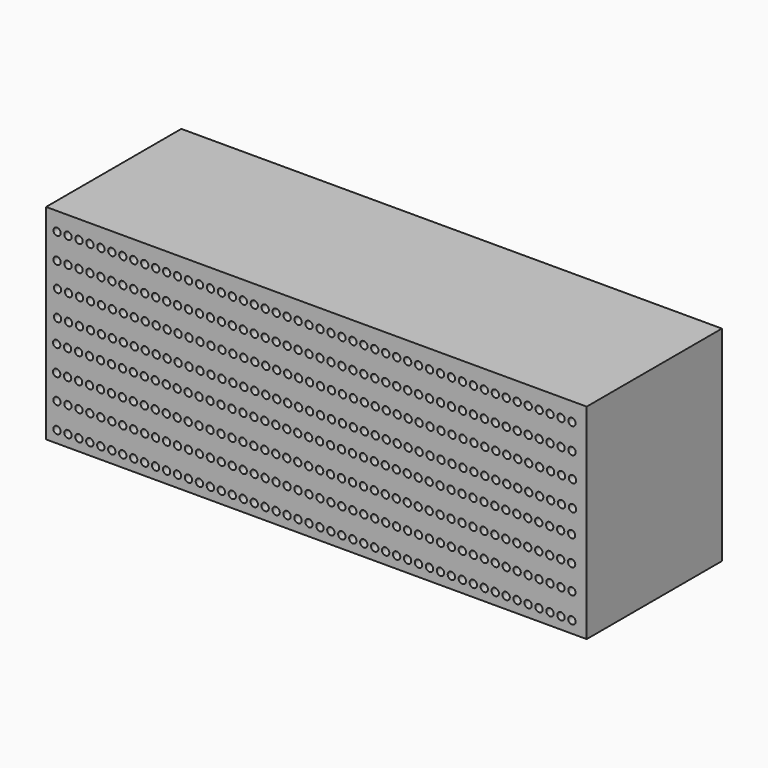
from build123d import *

# Parameters (mm, degrees)
F0_R     = 2.2098
F0_R_2   = 2.1844
F0_R_3   = 2.1971
F1_DEPTH = 101.6
F2_DEPTH = 101.6


with BuildPart() as f1:
    # F0 (on Front) → F1 (new body)
    with BuildSketch(Plane.XZ):
        Polygon((-162.4711, 59.309), (-162.4711, -61.5188), (-160.274, -61.5188), (160.274, -61.5188), (162.4711, -61.5188), (162.4711, 59.309), (162.4711, 61.5188), (-162.4711, 61.5188), align=None)
        with Locations((-155.927731, -54.442819)):
            Circle(F0_R, mode=Mode.SUBTRACT)
        with Locations((-149.349131, -54.442819)):
            Circle(F0_R, mode=Mode.SUBTRACT)
        with Locations((-142.745131, -54.442819)):
            Circle(F0_R, mode=Mode.SUBTRACT)
        with Locations((-136.166531, -54.442819)):
            Circle(F0_R, mode=Mode.SUBTRACT)
        with Locations((-129.575231, -54.442819)):
            Circle(F0_R, mode=Mode.SUBTRACT)
        with Locations((-122.996631, -54.442819)):
            Circle(F0_R, mode=Mode.SUBTRACT)
        with Locations((-116.405331, -54.442819)):
            Circle(F0_R, mode=Mode.SUBTRACT)
        with Locations((-109.826731, -54.442819)):
            Circle(F0_R, mode=Mode.SUBTRACT)
        with Locations((-103.235431, -54.442819)):
            Circle(F0_R, mode=Mode.SUBTRACT)
        with Locations((-96.656831, -54.442819)):
            Circle(F0_R, mode=Mode.SUBTRACT)
        with Locations((-90.065531, -54.442819)):
            Circle(F0_R, mode=Mode.SUBTRACT)
        with Locations((-83.486931, -54.442819)):
            Circle(F0_R, mode=Mode.SUBTRACT)
        with Locations((-155.927731, -39.075819)):
            Circle(F0_R_2, mode=Mode.SUBTRACT)
        with Locations((-149.349131, -39.075819)):
            Circle(F0_R_3, mode=Mode.SUBTRACT)
        with Locations((-142.745131, -39.075819)):
            Circle(F0_R_3, mode=Mode.SUBTRACT)
        with Locations((-136.166531, -39.075819)):
            Circle(F0_R_3, mode=Mode.SUBTRACT)
        with Locations((-129.575231, -39.075819)):
            Circle(F0_R_3, mode=Mode.SUBTRACT)
        with Locations((-122.996631, -39.075819)):
            Circle(F0_R_3, mode=Mode.SUBTRACT)
        with Locations((-116.405331, -39.075819)):
            Circle(F0_R_3, mode=Mode.SUBTRACT)
        with Locations((-109.826731, -39.075819)):
            Circle(F0_R_3, mode=Mode.SUBTRACT)
        with Locations((-103.235431, -39.075819)):
            Circle(F0_R_3, mode=Mode.SUBTRACT)
        with Locations((-96.656831, -39.075819)):
            Circle(F0_R_3, mode=Mode.SUBTRACT)
        with Locations((-90.065531, -39.075819)):
            Circle(F0_R_3, mode=Mode.SUBTRACT)
        with Locations((-83.486931, -39.075819)):
            Circle(F0_R_3, mode=Mode.SUBTRACT)
        with Locations((-76.895631, -54.442819)):
            Circle(F0_R, mode=Mode.SUBTRACT)
        with Locations((-70.317031, -54.442819)):
            Circle(F0_R, mode=Mode.SUBTRACT)
        with Locations((-63.725731, -54.442819)):
            Circle(F0_R, mode=Mode.SUBTRACT)
        with Locations((-57.147131, -54.442819)):
            Circle(F0_R, mode=Mode.SUBTRACT)
        with Locations((-50.555831, -54.442819)):
            Circle(F0_R, mode=Mode.SUBTRACT)
        with Locations((-43.977231, -54.442819)):
            Circle(F0_R, mode=Mode.SUBTRACT)
        with Locations((-37.385931, -54.442819)):
            Circle(F0_R, mode=Mode.SUBTRACT)
        with Locations((-30.807331, -54.442819)):
            Circle(F0_R, mode=Mode.SUBTRACT)
        with Locations((-24.216031, -54.442819)):
            Circle(F0_R, mode=Mode.SUBTRACT)
        with Locations((-17.637431, -54.442819)):
            Circle(F0_R, mode=Mode.SUBTRACT)
        with Locations((-11.046131, -54.442819)):
            Circle(F0_R, mode=Mode.SUBTRACT)
        with Locations((-4.467531, -54.442819)):
            Circle(F0_R, mode=Mode.SUBTRACT)
        Polygon((-158.137531, -45.654419), (-155.927731, -45.654419), (160.213369, -45.654419), (160.213369, -50.048619), (-160.334631, -50.048619), (-160.334631, -45.654419), align=None, mode=Mode.SUBTRACT)
        with Locations((-76.895631, -39.075819)):
            Circle(F0_R_3, mode=Mode.SUBTRACT)
        with Locations((-70.317031, -39.075819)):
            Circle(F0_R_3, mode=Mode.SUBTRACT)
        with Locations((-63.725731, -39.075819)):
            Circle(F0_R_3, mode=Mode.SUBTRACT)
        with Locations((-57.147131, -39.075819)):
            Circle(F0_R_3, mode=Mode.SUBTRACT)
        with Locations((-50.555831, -39.075819)):
            Circle(F0_R_3, mode=Mode.SUBTRACT)
        with Locations((-43.977231, -39.075819)):
            Circle(F0_R_3, mode=Mode.SUBTRACT)
        with Locations((-37.385931, -39.075819)):
            Circle(F0_R_3, mode=Mode.SUBTRACT)
        with Locations((-30.807331, -39.075819)):
            Circle(F0_R_3, mode=Mode.SUBTRACT)
        with Locations((-24.216031, -39.075819)):
            Circle(F0_R_3, mode=Mode.SUBTRACT)
        with Locations((-17.637431, -39.075819)):
            Circle(F0_R_3, mode=Mode.SUBTRACT)
        with Locations((-11.046131, -39.075819)):
            Circle(F0_R_3, mode=Mode.SUBTRACT)
        with Locations((-4.467531, -39.075819)):
            Circle(F0_R_3, mode=Mode.SUBTRACT)
        Polygon((-160.334631, -34.681619), (-160.334631, -30.287419), (160.213369, -30.287419), (160.213369, -34.681619), (158.016269, -34.681619), (-158.137531, -34.681619), align=None, mode=Mode.SUBTRACT)
        with Locations((-156.120604, -24.284236)):
            Circle(F0_R, mode=Mode.SUBTRACT)
        with Locations((-149.542004, -24.284236)):
            Circle(F0_R, mode=Mode.SUBTRACT)
        with Locations((-142.938004, -24.284236)):
            Circle(F0_R, mode=Mode.SUBTRACT)
        with Locations((-136.359404, -24.284236)):
            Circle(F0_R, mode=Mode.SUBTRACT)
        with Locations((-129.768104, -24.284236)):
            Circle(F0_R, mode=Mode.SUBTRACT)
        with Locations((-123.189504, -24.284236)):
            Circle(F0_R, mode=Mode.SUBTRACT)
        with Locations((-116.598204, -24.284236)):
            Circle(F0_R, mode=Mode.SUBTRACT)
        with Locations((-110.019604, -24.284236)):
            Circle(F0_R, mode=Mode.SUBTRACT)
        with Locations((-103.428304, -24.284236)):
            Circle(F0_R, mode=Mode.SUBTRACT)
        with Locations((-96.849704, -24.284236)):
            Circle(F0_R, mode=Mode.SUBTRACT)
        with Locations((-90.258404, -24.284236)):
            Circle(F0_R, mode=Mode.SUBTRACT)
        with Locations((-83.679804, -24.284236)):
            Circle(F0_R, mode=Mode.SUBTRACT)
        with Locations((-156.120604, -8.917236)):
            Circle(F0_R_2, mode=Mode.SUBTRACT)
        with Locations((-149.542004, -8.917236)):
            Circle(F0_R_3, mode=Mode.SUBTRACT)
        with Locations((-142.938004, -8.917236)):
            Circle(F0_R_3, mode=Mode.SUBTRACT)
        with Locations((-136.359404, -8.917236)):
            Circle(F0_R_3, mode=Mode.SUBTRACT)
        with Locations((-129.768104, -8.917236)):
            Circle(F0_R_3, mode=Mode.SUBTRACT)
        with Locations((-123.189504, -8.917236)):
            Circle(F0_R_3, mode=Mode.SUBTRACT)
        with Locations((-116.598204, -8.917236)):
            Circle(F0_R_3, mode=Mode.SUBTRACT)
        with Locations((-110.019604, -8.917236)):
            Circle(F0_R_3, mode=Mode.SUBTRACT)
        with Locations((-103.428304, -8.917236)):
            Circle(F0_R_3, mode=Mode.SUBTRACT)
        with Locations((-96.849704, -8.917236)):
            Circle(F0_R_3, mode=Mode.SUBTRACT)
        with Locations((-90.258404, -8.917236)):
            Circle(F0_R_3, mode=Mode.SUBTRACT)
        with Locations((-83.679804, -8.917236)):
            Circle(F0_R_3, mode=Mode.SUBTRACT)
        with Locations((-77.088504, -24.284236)):
            Circle(F0_R, mode=Mode.SUBTRACT)
        with Locations((-70.509904, -24.284236)):
            Circle(F0_R, mode=Mode.SUBTRACT)
        with Locations((-63.918604, -24.284236)):
            Circle(F0_R, mode=Mode.SUBTRACT)
        with Locations((-57.340004, -24.284236)):
            Circle(F0_R, mode=Mode.SUBTRACT)
        with Locations((-50.748704, -24.284236)):
            Circle(F0_R, mode=Mode.SUBTRACT)
        with Locations((-44.170104, -24.284236)):
            Circle(F0_R, mode=Mode.SUBTRACT)
        with Locations((-37.578804, -24.284236)):
            Circle(F0_R, mode=Mode.SUBTRACT)
        with Locations((-31.000204, -24.284236)):
            Circle(F0_R, mode=Mode.SUBTRACT)
        with Locations((-24.408904, -24.284236)):
            Circle(F0_R, mode=Mode.SUBTRACT)
        with Locations((-17.830304, -24.284236)):
            Circle(F0_R, mode=Mode.SUBTRACT)
        with Locations((-11.239004, -24.284236)):
            Circle(F0_R, mode=Mode.SUBTRACT)
        with Locations((-4.660404, -24.284236)):
            Circle(F0_R, mode=Mode.SUBTRACT)
        Polygon((-158.330404, -15.495836), (-156.120604, -15.495836), (160.020496, -15.495836), (160.020496, -19.890036), (-160.527504, -19.890036), (-160.527504, -15.495836), align=None, mode=Mode.SUBTRACT)
        with Locations((-77.088504, -8.917236)):
            Circle(F0_R_3, mode=Mode.SUBTRACT)
        with Locations((-70.509904, -8.917236)):
            Circle(F0_R_3, mode=Mode.SUBTRACT)
        with Locations((-63.918604, -8.917236)):
            Circle(F0_R_3, mode=Mode.SUBTRACT)
        with Locations((-57.340004, -8.917236)):
            Circle(F0_R_3, mode=Mode.SUBTRACT)
        with Locations((-50.748704, -8.917236)):
            Circle(F0_R_3, mode=Mode.SUBTRACT)
        with Locations((-44.170104, -8.917236)):
            Circle(F0_R_3, mode=Mode.SUBTRACT)
        with Locations((-37.578804, -8.917236)):
            Circle(F0_R_3, mode=Mode.SUBTRACT)
        with Locations((-31.000204, -8.917236)):
            Circle(F0_R_3, mode=Mode.SUBTRACT)
        with Locations((-24.408904, -8.917236)):
            Circle(F0_R_3, mode=Mode.SUBTRACT)
        with Locations((-17.830304, -8.917236)):
            Circle(F0_R_3, mode=Mode.SUBTRACT)
        with Locations((-11.239004, -8.917236)):
            Circle(F0_R_3, mode=Mode.SUBTRACT)
        with Locations((-4.660404, -8.917236)):
            Circle(F0_R_3, mode=Mode.SUBTRACT)
        Polygon((-160.527504, -4.523036), (-160.527504, -0.128836), (160.020496, -0.128836), (160.020496, -4.523036), (157.823396, -4.523036), (-158.330404, -4.523036), align=None, mode=Mode.SUBTRACT)
        with Locations((2.123769, -54.442819)):
            Circle(F0_R, mode=Mode.SUBTRACT)
        with Locations((8.702369, -54.442819)):
            Circle(F0_R, mode=Mode.SUBTRACT)
        with Locations((15.293669, -54.442819)):
            Circle(F0_R, mode=Mode.SUBTRACT)
        with Locations((21.872269, -54.442819)):
            Circle(F0_R, mode=Mode.SUBTRACT)
        with Locations((28.463569, -54.442819)):
            Circle(F0_R, mode=Mode.SUBTRACT)
        with Locations((35.042169, -54.442819)):
            Circle(F0_R, mode=Mode.SUBTRACT)
        with Locations((41.633469, -54.442819)):
            Circle(F0_R, mode=Mode.SUBTRACT)
        with Locations((48.212069, -54.442819)):
            Circle(F0_R, mode=Mode.SUBTRACT)
        with Locations((54.803369, -54.442819)):
            Circle(F0_R, mode=Mode.SUBTRACT)
        with Locations((61.381969, -54.442819)):
            Circle(F0_R, mode=Mode.SUBTRACT)
        with Locations((67.973269, -54.442819)):
            Circle(F0_R, mode=Mode.SUBTRACT)
        with Locations((74.551869, -54.442819)):
            Circle(F0_R, mode=Mode.SUBTRACT)
        with Locations((81.143169, -54.442819)):
            Circle(F0_R, mode=Mode.SUBTRACT)
        with Locations((2.123769, -39.075819)):
            Circle(F0_R_3, mode=Mode.SUBTRACT)
        with Locations((8.702369, -39.075819)):
            Circle(F0_R_3, mode=Mode.SUBTRACT)
        with Locations((15.293669, -39.075819)):
            Circle(F0_R_3, mode=Mode.SUBTRACT)
        with Locations((21.872269, -39.075819)):
            Circle(F0_R_3, mode=Mode.SUBTRACT)
        with Locations((28.463569, -39.075819)):
            Circle(F0_R_3, mode=Mode.SUBTRACT)
        with Locations((35.042169, -39.075819)):
            Circle(F0_R_3, mode=Mode.SUBTRACT)
        with Locations((41.633469, -39.075819)):
            Circle(F0_R_3, mode=Mode.SUBTRACT)
        with Locations((48.212069, -39.075819)):
            Circle(F0_R_3, mode=Mode.SUBTRACT)
        with Locations((54.803369, -39.075819)):
            Circle(F0_R_3, mode=Mode.SUBTRACT)
        with Locations((61.381969, -39.075819)):
            Circle(F0_R_3, mode=Mode.SUBTRACT)
        with Locations((67.973269, -39.075819)):
            Circle(F0_R_3, mode=Mode.SUBTRACT)
        with Locations((74.551869, -39.075819)):
            Circle(F0_R_3, mode=Mode.SUBTRACT)
        with Locations((81.143169, -39.075819)):
            Circle(F0_R_3, mode=Mode.SUBTRACT)
        with Locations((87.721769, -54.442819)):
            Circle(F0_R, mode=Mode.SUBTRACT)
        with Locations((94.313069, -54.442819)):
            Circle(F0_R, mode=Mode.SUBTRACT)
        with Locations((100.891669, -54.442819)):
            Circle(F0_R, mode=Mode.SUBTRACT)
        with Locations((107.482969, -54.442819)):
            Circle(F0_R, mode=Mode.SUBTRACT)
        with Locations((114.061569, -54.442819)):
            Circle(F0_R, mode=Mode.SUBTRACT)
        with Locations((120.652869, -54.442819)):
            Circle(F0_R, mode=Mode.SUBTRACT)
        with Locations((127.244169, -54.442819)):
            Circle(F0_R, mode=Mode.SUBTRACT)
        with Locations((133.835469, -54.442819)):
            Circle(F0_R, mode=Mode.SUBTRACT)
        with Locations((140.414069, -54.442819)):
            Circle(F0_R, mode=Mode.SUBTRACT)
        with Locations((147.005369, -54.442819)):
            Circle(F0_R, mode=Mode.SUBTRACT)
        with Locations((153.583969, -54.442819)):
            Circle(F0_R, mode=Mode.SUBTRACT)
        with Locations((87.721769, -39.075819)):
            Circle(F0_R_3, mode=Mode.SUBTRACT)
        with Locations((94.313069, -39.075819)):
            Circle(F0_R_3, mode=Mode.SUBTRACT)
        with Locations((100.891669, -39.075819)):
            Circle(F0_R_3, mode=Mode.SUBTRACT)
        with Locations((107.482969, -39.075819)):
            Circle(F0_R_3, mode=Mode.SUBTRACT)
        with Locations((114.061569, -39.075819)):
            Circle(F0_R_3, mode=Mode.SUBTRACT)
        with Locations((120.652869, -39.075819)):
            Circle(F0_R_3, mode=Mode.SUBTRACT)
        with Locations((127.244169, -39.075819)):
            Circle(F0_R_3, mode=Mode.SUBTRACT)
        with Locations((133.835469, -39.075819)):
            Circle(F0_R_3, mode=Mode.SUBTRACT)
        with Locations((140.414069, -39.075819)):
            Circle(F0_R_3, mode=Mode.SUBTRACT)
        with Locations((147.005369, -39.075819)):
            Circle(F0_R_3, mode=Mode.SUBTRACT)
        with Locations((153.583969, -39.075819)):
            Circle(F0_R_3, mode=Mode.SUBTRACT)
        with Locations((1.930896, -24.284236)):
            Circle(F0_R, mode=Mode.SUBTRACT)
        with Locations((8.509496, -24.284236)):
            Circle(F0_R, mode=Mode.SUBTRACT)
        with Locations((15.100796, -24.284236)):
            Circle(F0_R, mode=Mode.SUBTRACT)
        with Locations((21.679396, -24.284236)):
            Circle(F0_R, mode=Mode.SUBTRACT)
        with Locations((28.270696, -24.284236)):
            Circle(F0_R, mode=Mode.SUBTRACT)
        with Locations((34.849296, -24.284236)):
            Circle(F0_R, mode=Mode.SUBTRACT)
        with Locations((41.440596, -24.284236)):
            Circle(F0_R, mode=Mode.SUBTRACT)
        with Locations((48.019196, -24.284236)):
            Circle(F0_R, mode=Mode.SUBTRACT)
        with Locations((54.610496, -24.284236)):
            Circle(F0_R, mode=Mode.SUBTRACT)
        with Locations((61.189096, -24.284236)):
            Circle(F0_R, mode=Mode.SUBTRACT)
        with Locations((67.780396, -24.284236)):
            Circle(F0_R, mode=Mode.SUBTRACT)
        with Locations((74.358996, -24.284236)):
            Circle(F0_R, mode=Mode.SUBTRACT)
        with Locations((80.950296, -24.284236)):
            Circle(F0_R, mode=Mode.SUBTRACT)
        with Locations((1.930896, -8.917236)):
            Circle(F0_R_3, mode=Mode.SUBTRACT)
        with Locations((8.509496, -8.917236)):
            Circle(F0_R_3, mode=Mode.SUBTRACT)
        with Locations((15.100796, -8.917236)):
            Circle(F0_R_3, mode=Mode.SUBTRACT)
        with Locations((21.679396, -8.917236)):
            Circle(F0_R_3, mode=Mode.SUBTRACT)
        with Locations((28.270696, -8.917236)):
            Circle(F0_R_3, mode=Mode.SUBTRACT)
        with Locations((34.849296, -8.917236)):
            Circle(F0_R_3, mode=Mode.SUBTRACT)
        with Locations((41.440596, -8.917236)):
            Circle(F0_R_3, mode=Mode.SUBTRACT)
        with Locations((48.019196, -8.917236)):
            Circle(F0_R_3, mode=Mode.SUBTRACT)
        with Locations((54.610496, -8.917236)):
            Circle(F0_R_3, mode=Mode.SUBTRACT)
        with Locations((61.189096, -8.917236)):
            Circle(F0_R_3, mode=Mode.SUBTRACT)
        with Locations((67.780396, -8.917236)):
            Circle(F0_R_3, mode=Mode.SUBTRACT)
        with Locations((74.358996, -8.917236)):
            Circle(F0_R_3, mode=Mode.SUBTRACT)
        with Locations((80.950296, -8.917236)):
            Circle(F0_R_3, mode=Mode.SUBTRACT)
        with Locations((87.528896, -24.284236)):
            Circle(F0_R, mode=Mode.SUBTRACT)
        with Locations((94.120196, -24.284236)):
            Circle(F0_R, mode=Mode.SUBTRACT)
        with Locations((100.698796, -24.284236)):
            Circle(F0_R, mode=Mode.SUBTRACT)
        with Locations((107.290096, -24.284236)):
            Circle(F0_R, mode=Mode.SUBTRACT)
        with Locations((113.868696, -24.284236)):
            Circle(F0_R, mode=Mode.SUBTRACT)
        with Locations((120.459996, -24.284236)):
            Circle(F0_R, mode=Mode.SUBTRACT)
        with Locations((127.051296, -24.284236)):
            Circle(F0_R, mode=Mode.SUBTRACT)
        with Locations((133.642596, -24.284236)):
            Circle(F0_R, mode=Mode.SUBTRACT)
        with Locations((140.221196, -24.284236)):
            Circle(F0_R, mode=Mode.SUBTRACT)
        with Locations((146.812496, -24.284236)):
            Circle(F0_R, mode=Mode.SUBTRACT)
        with Locations((153.391096, -24.284236)):
            Circle(F0_R, mode=Mode.SUBTRACT)
        with Locations((87.528896, -8.917236)):
            Circle(F0_R_3, mode=Mode.SUBTRACT)
        with Locations((94.120196, -8.917236)):
            Circle(F0_R_3, mode=Mode.SUBTRACT)
        with Locations((100.698796, -8.917236)):
            Circle(F0_R_3, mode=Mode.SUBTRACT)
        with Locations((107.290096, -8.917236)):
            Circle(F0_R_3, mode=Mode.SUBTRACT)
        with Locations((113.868696, -8.917236)):
            Circle(F0_R_3, mode=Mode.SUBTRACT)
        with Locations((120.459996, -8.917236)):
            Circle(F0_R_3, mode=Mode.SUBTRACT)
        with Locations((127.051296, -8.917236)):
            Circle(F0_R_3, mode=Mode.SUBTRACT)
        with Locations((133.642596, -8.917236)):
            Circle(F0_R_3, mode=Mode.SUBTRACT)
        with Locations((140.221196, -8.917236)):
            Circle(F0_R_3, mode=Mode.SUBTRACT)
        with Locations((146.812496, -8.917236)):
            Circle(F0_R_3, mode=Mode.SUBTRACT)
        with Locations((153.391096, -8.917236)):
            Circle(F0_R_3, mode=Mode.SUBTRACT)
        with Locations((-155.567852, 4.985912)):
            Circle(F0_R, mode=Mode.SUBTRACT)
        with Locations((-148.989252, 4.985912)):
            Circle(F0_R, mode=Mode.SUBTRACT)
        with Locations((-142.385252, 4.985912)):
            Circle(F0_R, mode=Mode.SUBTRACT)
        with Locations((-135.806652, 4.985912)):
            Circle(F0_R, mode=Mode.SUBTRACT)
        with Locations((-129.215352, 4.985912)):
            Circle(F0_R, mode=Mode.SUBTRACT)
        with Locations((-122.636752, 4.985912)):
            Circle(F0_R, mode=Mode.SUBTRACT)
        with Locations((-116.045452, 4.985912)):
            Circle(F0_R, mode=Mode.SUBTRACT)
        with Locations((-109.466852, 4.985912)):
            Circle(F0_R, mode=Mode.SUBTRACT)
        with Locations((-102.875552, 4.985912)):
            Circle(F0_R, mode=Mode.SUBTRACT)
        with Locations((-96.296952, 4.985912)):
            Circle(F0_R, mode=Mode.SUBTRACT)
        with Locations((-89.705652, 4.985912)):
            Circle(F0_R, mode=Mode.SUBTRACT)
        with Locations((-83.127052, 4.985912)):
            Circle(F0_R, mode=Mode.SUBTRACT)
        with Locations((-155.567852, 20.352912)):
            Circle(F0_R_2, mode=Mode.SUBTRACT)
        with Locations((-148.989252, 20.352912)):
            Circle(F0_R_3, mode=Mode.SUBTRACT)
        with Locations((-142.385252, 20.352912)):
            Circle(F0_R_3, mode=Mode.SUBTRACT)
        with Locations((-135.806652, 20.352912)):
            Circle(F0_R_3, mode=Mode.SUBTRACT)
        with Locations((-129.215352, 20.352912)):
            Circle(F0_R_3, mode=Mode.SUBTRACT)
        with Locations((-122.636752, 20.352912)):
            Circle(F0_R_3, mode=Mode.SUBTRACT)
        with Locations((-116.045452, 20.352912)):
            Circle(F0_R_3, mode=Mode.SUBTRACT)
        with Locations((-109.466852, 20.352912)):
            Circle(F0_R_3, mode=Mode.SUBTRACT)
        with Locations((-102.875552, 20.352912)):
            Circle(F0_R_3, mode=Mode.SUBTRACT)
        with Locations((-96.296952, 20.352912)):
            Circle(F0_R_3, mode=Mode.SUBTRACT)
        with Locations((-89.705652, 20.352912)):
            Circle(F0_R_3, mode=Mode.SUBTRACT)
        with Locations((-83.127052, 20.352912)):
            Circle(F0_R_3, mode=Mode.SUBTRACT)
        with Locations((-76.535752, 4.985912)):
            Circle(F0_R, mode=Mode.SUBTRACT)
        with Locations((-69.957152, 4.985912)):
            Circle(F0_R, mode=Mode.SUBTRACT)
        with Locations((-63.365852, 4.985912)):
            Circle(F0_R, mode=Mode.SUBTRACT)
        with Locations((-56.787252, 4.985912)):
            Circle(F0_R, mode=Mode.SUBTRACT)
        with Locations((-50.195952, 4.985912)):
            Circle(F0_R, mode=Mode.SUBTRACT)
        with Locations((-43.617352, 4.985912)):
            Circle(F0_R, mode=Mode.SUBTRACT)
        with Locations((-37.026052, 4.985912)):
            Circle(F0_R, mode=Mode.SUBTRACT)
        with Locations((-30.447452, 4.985912)):
            Circle(F0_R, mode=Mode.SUBTRACT)
        with Locations((-23.856152, 4.985912)):
            Circle(F0_R, mode=Mode.SUBTRACT)
        with Locations((-17.277552, 4.985912)):
            Circle(F0_R, mode=Mode.SUBTRACT)
        with Locations((-10.686252, 4.985912)):
            Circle(F0_R, mode=Mode.SUBTRACT)
        with Locations((-4.107652, 4.985912)):
            Circle(F0_R, mode=Mode.SUBTRACT)
        with Locations((-76.535752, 20.352912)):
            Circle(F0_R_3, mode=Mode.SUBTRACT)
        with Locations((-69.957152, 20.352912)):
            Circle(F0_R_3, mode=Mode.SUBTRACT)
        with Locations((-63.365852, 20.352912)):
            Circle(F0_R_3, mode=Mode.SUBTRACT)
        with Locations((-56.787252, 20.352912)):
            Circle(F0_R_3, mode=Mode.SUBTRACT)
        with Locations((-50.195952, 20.352912)):
            Circle(F0_R_3, mode=Mode.SUBTRACT)
        with Locations((-43.617352, 20.352912)):
            Circle(F0_R_3, mode=Mode.SUBTRACT)
        with Locations((-37.026052, 20.352912)):
            Circle(F0_R_3, mode=Mode.SUBTRACT)
        with Locations((-30.447452, 20.352912)):
            Circle(F0_R_3, mode=Mode.SUBTRACT)
        with Locations((-23.856152, 20.352912)):
            Circle(F0_R_3, mode=Mode.SUBTRACT)
        with Locations((-17.277552, 20.352912)):
            Circle(F0_R_3, mode=Mode.SUBTRACT)
        with Locations((-10.686252, 20.352912)):
            Circle(F0_R_3, mode=Mode.SUBTRACT)
        with Locations((-4.107652, 20.352912)):
            Circle(F0_R_3, mode=Mode.SUBTRACT)
        with Locations((-155.8671, 35.1536)):
            Circle(F0_R, mode=Mode.SUBTRACT)
        with Locations((-149.2885, 35.1536)):
            Circle(F0_R, mode=Mode.SUBTRACT)
        with Locations((-142.6845, 35.1536)):
            Circle(F0_R, mode=Mode.SUBTRACT)
        with Locations((-136.1059, 35.1536)):
            Circle(F0_R, mode=Mode.SUBTRACT)
        with Locations((-129.5146, 35.1536)):
            Circle(F0_R, mode=Mode.SUBTRACT)
        with Locations((-122.936, 35.1536)):
            Circle(F0_R, mode=Mode.SUBTRACT)
        with Locations((-116.3447, 35.1536)):
            Circle(F0_R, mode=Mode.SUBTRACT)
        with Locations((-109.7661, 35.1536)):
            Circle(F0_R, mode=Mode.SUBTRACT)
        with Locations((-103.1748, 35.1536)):
            Circle(F0_R, mode=Mode.SUBTRACT)
        with Locations((-96.5962, 35.1536)):
            Circle(F0_R, mode=Mode.SUBTRACT)
        with Locations((-90.0049, 35.1536)):
            Circle(F0_R, mode=Mode.SUBTRACT)
        with Locations((-83.4263, 35.1536)):
            Circle(F0_R, mode=Mode.SUBTRACT)
        with Locations((-155.8671, 50.5206)):
            Circle(F0_R_2, mode=Mode.SUBTRACT)
        with Locations((-149.2885, 50.5206)):
            Circle(F0_R_3, mode=Mode.SUBTRACT)
        with Locations((-142.6845, 50.5206)):
            Circle(F0_R_3, mode=Mode.SUBTRACT)
        with Locations((-136.1059, 50.5206)):
            Circle(F0_R_3, mode=Mode.SUBTRACT)
        with Locations((-129.5146, 50.5206)):
            Circle(F0_R_3, mode=Mode.SUBTRACT)
        with Locations((-122.936, 50.5206)):
            Circle(F0_R_3, mode=Mode.SUBTRACT)
        with Locations((-116.3447, 50.5206)):
            Circle(F0_R_3, mode=Mode.SUBTRACT)
        with Locations((-109.7661, 50.5206)):
            Circle(F0_R_3, mode=Mode.SUBTRACT)
        with Locations((-103.1748, 50.5206)):
            Circle(F0_R_3, mode=Mode.SUBTRACT)
        with Locations((-96.5962, 50.5206)):
            Circle(F0_R_3, mode=Mode.SUBTRACT)
        with Locations((-90.0049, 50.5206)):
            Circle(F0_R_3, mode=Mode.SUBTRACT)
        with Locations((-83.4263, 50.5206)):
            Circle(F0_R_3, mode=Mode.SUBTRACT)
        with Locations((-76.835, 35.1536)):
            Circle(F0_R, mode=Mode.SUBTRACT)
        with Locations((-70.2564, 35.1536)):
            Circle(F0_R, mode=Mode.SUBTRACT)
        with Locations((-63.6651, 35.1536)):
            Circle(F0_R, mode=Mode.SUBTRACT)
        with Locations((-57.0865, 35.1536)):
            Circle(F0_R, mode=Mode.SUBTRACT)
        with Locations((-50.4952, 35.1536)):
            Circle(F0_R, mode=Mode.SUBTRACT)
        with Locations((-43.9166, 35.1536)):
            Circle(F0_R, mode=Mode.SUBTRACT)
        with Locations((-37.3253, 35.1536)):
            Circle(F0_R, mode=Mode.SUBTRACT)
        with Locations((-30.7467, 35.1536)):
            Circle(F0_R, mode=Mode.SUBTRACT)
        with Locations((-24.1554, 35.1536)):
            Circle(F0_R, mode=Mode.SUBTRACT)
        with Locations((-17.5768, 35.1536)):
            Circle(F0_R, mode=Mode.SUBTRACT)
        with Locations((-10.9855, 35.1536)):
            Circle(F0_R, mode=Mode.SUBTRACT)
        with Locations((-4.4069, 35.1536)):
            Circle(F0_R, mode=Mode.SUBTRACT)
        with Locations((-76.835, 50.5206)):
            Circle(F0_R_3, mode=Mode.SUBTRACT)
        with Locations((-70.2564, 50.5206)):
            Circle(F0_R_3, mode=Mode.SUBTRACT)
        with Locations((-63.6651, 50.5206)):
            Circle(F0_R_3, mode=Mode.SUBTRACT)
        with Locations((-57.0865, 50.5206)):
            Circle(F0_R_3, mode=Mode.SUBTRACT)
        with Locations((-50.4952, 50.5206)):
            Circle(F0_R_3, mode=Mode.SUBTRACT)
        with Locations((-43.9166, 50.5206)):
            Circle(F0_R_3, mode=Mode.SUBTRACT)
        with Locations((-37.3253, 50.5206)):
            Circle(F0_R_3, mode=Mode.SUBTRACT)
        with Locations((-30.7467, 50.5206)):
            Circle(F0_R_3, mode=Mode.SUBTRACT)
        with Locations((-24.1554, 50.5206)):
            Circle(F0_R_3, mode=Mode.SUBTRACT)
        with Locations((-17.5768, 50.5206)):
            Circle(F0_R_3, mode=Mode.SUBTRACT)
        with Locations((-10.9855, 50.5206)):
            Circle(F0_R_3, mode=Mode.SUBTRACT)
        with Locations((-4.4069, 50.5206)):
            Circle(F0_R_3, mode=Mode.SUBTRACT)
        with Locations((2.483648, 4.985912)):
            Circle(F0_R, mode=Mode.SUBTRACT)
        with Locations((9.062248, 4.985912)):
            Circle(F0_R, mode=Mode.SUBTRACT)
        with Locations((15.653548, 4.985912)):
            Circle(F0_R, mode=Mode.SUBTRACT)
        with Locations((22.232148, 4.985912)):
            Circle(F0_R, mode=Mode.SUBTRACT)
        with Locations((28.823448, 4.985912)):
            Circle(F0_R, mode=Mode.SUBTRACT)
        with Locations((35.402048, 4.985912)):
            Circle(F0_R, mode=Mode.SUBTRACT)
        Polygon((-157.777652, 13.774312), (-155.567852, 13.774312), (160.573248, 13.774312), (160.573248, 9.380112), (-159.974752, 9.380112), (-159.974752, 13.774312), align=None, mode=Mode.SUBTRACT)
        with Locations((41.993348, 4.985912)):
            Circle(F0_R, mode=Mode.SUBTRACT)
        with Locations((48.571948, 4.985912)):
            Circle(F0_R, mode=Mode.SUBTRACT)
        with Locations((55.163248, 4.985912)):
            Circle(F0_R, mode=Mode.SUBTRACT)
        with Locations((61.741848, 4.985912)):
            Circle(F0_R, mode=Mode.SUBTRACT)
        with Locations((68.333148, 4.985912)):
            Circle(F0_R, mode=Mode.SUBTRACT)
        with Locations((74.911748, 4.985912)):
            Circle(F0_R, mode=Mode.SUBTRACT)
        with Locations((2.483648, 20.352912)):
            Circle(F0_R_3, mode=Mode.SUBTRACT)
        with Locations((9.062248, 20.352912)):
            Circle(F0_R_3, mode=Mode.SUBTRACT)
        with Locations((15.653548, 20.352912)):
            Circle(F0_R_3, mode=Mode.SUBTRACT)
        with Locations((22.232148, 20.352912)):
            Circle(F0_R_3, mode=Mode.SUBTRACT)
        with Locations((28.823448, 20.352912)):
            Circle(F0_R_3, mode=Mode.SUBTRACT)
        with Locations((35.402048, 20.352912)):
            Circle(F0_R_3, mode=Mode.SUBTRACT)
        Polygon((-159.974752, 24.747112), (-159.974752, 29.141312), (160.573248, 29.141312), (160.573248, 24.747112), (158.376148, 24.747112), (-157.777652, 24.747112), align=None, mode=Mode.SUBTRACT)
        with Locations((41.993348, 20.352912)):
            Circle(F0_R_3, mode=Mode.SUBTRACT)
        with Locations((48.571948, 20.352912)):
            Circle(F0_R_3, mode=Mode.SUBTRACT)
        with Locations((55.163248, 20.352912)):
            Circle(F0_R_3, mode=Mode.SUBTRACT)
        with Locations((61.741848, 20.352912)):
            Circle(F0_R_3, mode=Mode.SUBTRACT)
        with Locations((68.333148, 20.352912)):
            Circle(F0_R_3, mode=Mode.SUBTRACT)
        with Locations((74.911748, 20.352912)):
            Circle(F0_R_3, mode=Mode.SUBTRACT)
        with Locations((81.503048, 4.985912)):
            Circle(F0_R, mode=Mode.SUBTRACT)
        with Locations((88.081648, 4.985912)):
            Circle(F0_R, mode=Mode.SUBTRACT)
        with Locations((94.672948, 4.985912)):
            Circle(F0_R, mode=Mode.SUBTRACT)
        with Locations((101.251548, 4.985912)):
            Circle(F0_R, mode=Mode.SUBTRACT)
        with Locations((107.842848, 4.985912)):
            Circle(F0_R, mode=Mode.SUBTRACT)
        with Locations((114.421448, 4.985912)):
            Circle(F0_R, mode=Mode.SUBTRACT)
        with Locations((121.012748, 4.985912)):
            Circle(F0_R, mode=Mode.SUBTRACT)
        with Locations((127.604048, 4.985912)):
            Circle(F0_R, mode=Mode.SUBTRACT)
        with Locations((134.195348, 4.985912)):
            Circle(F0_R, mode=Mode.SUBTRACT)
        with Locations((140.773948, 4.985912)):
            Circle(F0_R, mode=Mode.SUBTRACT)
        with Locations((147.365248, 4.985912)):
            Circle(F0_R, mode=Mode.SUBTRACT)
        with Locations((153.943848, 4.985912)):
            Circle(F0_R, mode=Mode.SUBTRACT)
        with Locations((81.503048, 20.352912)):
            Circle(F0_R_3, mode=Mode.SUBTRACT)
        with Locations((88.081648, 20.352912)):
            Circle(F0_R_3, mode=Mode.SUBTRACT)
        with Locations((94.672948, 20.352912)):
            Circle(F0_R_3, mode=Mode.SUBTRACT)
        with Locations((101.251548, 20.352912)):
            Circle(F0_R_3, mode=Mode.SUBTRACT)
        with Locations((107.842848, 20.352912)):
            Circle(F0_R_3, mode=Mode.SUBTRACT)
        with Locations((114.421448, 20.352912)):
            Circle(F0_R_3, mode=Mode.SUBTRACT)
        with Locations((121.012748, 20.352912)):
            Circle(F0_R_3, mode=Mode.SUBTRACT)
        with Locations((127.604048, 20.352912)):
            Circle(F0_R_3, mode=Mode.SUBTRACT)
        with Locations((134.195348, 20.352912)):
            Circle(F0_R_3, mode=Mode.SUBTRACT)
        with Locations((140.773948, 20.352912)):
            Circle(F0_R_3, mode=Mode.SUBTRACT)
        with Locations((147.365248, 20.352912)):
            Circle(F0_R_3, mode=Mode.SUBTRACT)
        with Locations((153.943848, 20.352912)):
            Circle(F0_R_3, mode=Mode.SUBTRACT)
        with Locations((2.1844, 35.1536)):
            Circle(F0_R, mode=Mode.SUBTRACT)
        with Locations((8.763, 35.1536)):
            Circle(F0_R, mode=Mode.SUBTRACT)
        with Locations((15.3543, 35.1536)):
            Circle(F0_R, mode=Mode.SUBTRACT)
        with Locations((21.9329, 35.1536)):
            Circle(F0_R, mode=Mode.SUBTRACT)
        with Locations((28.5242, 35.1536)):
            Circle(F0_R, mode=Mode.SUBTRACT)
        with Locations((35.1028, 35.1536)):
            Circle(F0_R, mode=Mode.SUBTRACT)
        Polygon((-158.0769, 43.942), (-155.8671, 43.942), (160.274, 43.942), (160.274, 39.5478), (-160.274, 39.5478), (-160.274, 43.942), align=None, mode=Mode.SUBTRACT)
        with Locations((41.6941, 35.1536)):
            Circle(F0_R, mode=Mode.SUBTRACT)
        with Locations((48.2727, 35.1536)):
            Circle(F0_R, mode=Mode.SUBTRACT)
        with Locations((54.864, 35.1536)):
            Circle(F0_R, mode=Mode.SUBTRACT)
        with Locations((61.4426, 35.1536)):
            Circle(F0_R, mode=Mode.SUBTRACT)
        with Locations((68.0339, 35.1536)):
            Circle(F0_R, mode=Mode.SUBTRACT)
        with Locations((74.6125, 35.1536)):
            Circle(F0_R, mode=Mode.SUBTRACT)
        with Locations((81.2038, 35.1536)):
            Circle(F0_R, mode=Mode.SUBTRACT)
        with Locations((2.1844, 50.5206)):
            Circle(F0_R_3, mode=Mode.SUBTRACT)
        with Locations((8.763, 50.5206)):
            Circle(F0_R_3, mode=Mode.SUBTRACT)
        with Locations((15.3543, 50.5206)):
            Circle(F0_R_3, mode=Mode.SUBTRACT)
        with Locations((21.9329, 50.5206)):
            Circle(F0_R_3, mode=Mode.SUBTRACT)
        with Locations((28.5242, 50.5206)):
            Circle(F0_R_3, mode=Mode.SUBTRACT)
        with Locations((35.1028, 50.5206)):
            Circle(F0_R_3, mode=Mode.SUBTRACT)
        Polygon((-160.274, 54.9148), (-160.274, 59.309), (160.274, 59.309), (160.274, 54.9148), (158.0769, 54.9148), (-158.0769, 54.9148), align=None, mode=Mode.SUBTRACT)
        with Locations((41.6941, 50.5206)):
            Circle(F0_R_3, mode=Mode.SUBTRACT)
        with Locations((48.2727, 50.5206)):
            Circle(F0_R_3, mode=Mode.SUBTRACT)
        with Locations((54.864, 50.5206)):
            Circle(F0_R_3, mode=Mode.SUBTRACT)
        with Locations((61.4426, 50.5206)):
            Circle(F0_R_3, mode=Mode.SUBTRACT)
        with Locations((68.0339, 50.5206)):
            Circle(F0_R_3, mode=Mode.SUBTRACT)
        with Locations((74.6125, 50.5206)):
            Circle(F0_R_3, mode=Mode.SUBTRACT)
        with Locations((81.2038, 50.5206)):
            Circle(F0_R_3, mode=Mode.SUBTRACT)
        with Locations((87.7824, 35.1536)):
            Circle(F0_R, mode=Mode.SUBTRACT)
        with Locations((94.3737, 35.1536)):
            Circle(F0_R, mode=Mode.SUBTRACT)
        with Locations((100.9523, 35.1536)):
            Circle(F0_R, mode=Mode.SUBTRACT)
        with Locations((107.5436, 35.1536)):
            Circle(F0_R, mode=Mode.SUBTRACT)
        with Locations((114.1222, 35.1536)):
            Circle(F0_R, mode=Mode.SUBTRACT)
        with Locations((120.7135, 35.1536)):
            Circle(F0_R, mode=Mode.SUBTRACT)
        with Locations((127.3048, 35.1536)):
            Circle(F0_R, mode=Mode.SUBTRACT)
        with Locations((133.8961, 35.1536)):
            Circle(F0_R, mode=Mode.SUBTRACT)
        with Locations((140.4747, 35.1536)):
            Circle(F0_R, mode=Mode.SUBTRACT)
        with Locations((147.066, 35.1536)):
            Circle(F0_R, mode=Mode.SUBTRACT)
        with Locations((153.6446, 35.1536)):
            Circle(F0_R, mode=Mode.SUBTRACT)
        with Locations((87.7824, 50.5206)):
            Circle(F0_R_3, mode=Mode.SUBTRACT)
        with Locations((94.3737, 50.5206)):
            Circle(F0_R_3, mode=Mode.SUBTRACT)
        with Locations((100.9523, 50.5206)):
            Circle(F0_R_3, mode=Mode.SUBTRACT)
        with Locations((107.5436, 50.5206)):
            Circle(F0_R_3, mode=Mode.SUBTRACT)
        with Locations((114.1222, 50.5206)):
            Circle(F0_R_3, mode=Mode.SUBTRACT)
        with Locations((120.7135, 50.5206)):
            Circle(F0_R_3, mode=Mode.SUBTRACT)
        with Locations((127.3048, 50.5206)):
            Circle(F0_R_3, mode=Mode.SUBTRACT)
        with Locations((133.8961, 50.5206)):
            Circle(F0_R_3, mode=Mode.SUBTRACT)
        with Locations((140.4747, 50.5206)):
            Circle(F0_R_3, mode=Mode.SUBTRACT)
        with Locations((147.066, 50.5206)):
            Circle(F0_R_3, mode=Mode.SUBTRACT)
        with Locations((153.6446, 50.5206)):
            Circle(F0_R_3, mode=Mode.SUBTRACT)
    extrude(amount=F1_DEPTH)

    # F0 (on Front) → F2 (join)
    with BuildSketch(Plane.XZ):
        Polygon((160.274, 59.309), (-160.274, 59.309), (-160.274, 54.9148), (-158.0769, 54.9148), (158.0769, 54.9148), (160.274, 54.9148), align=None)
        Polygon((160.274, 43.942), (-155.8671, 43.942), (-158.0769, 43.942), (-160.274, 43.942), (-160.274, 39.5478), (160.274, 39.5478), align=None)
        Polygon((160.573248, 29.141312), (-159.974752, 29.141312), (-159.974752, 24.747112), (-157.777652, 24.747112), (158.376148, 24.747112), (160.573248, 24.747112), align=None)
        Polygon((160.573248, 13.774312), (-155.567852, 13.774312), (-157.777652, 13.774312), (-159.974752, 13.774312), (-159.974752, 9.380112), (160.573248, 9.380112), align=None)
        Polygon((160.020496, -0.128836), (-160.527504, -0.128836), (-160.527504, -4.523036), (-158.330404, -4.523036), (157.823396, -4.523036), (160.020496, -4.523036), align=None)
        Polygon((160.020496, -15.495836), (-156.120604, -15.495836), (-158.330404, -15.495836), (-160.527504, -15.495836), (-160.527504, -19.890036), (160.020496, -19.890036), align=None)
        Polygon((160.213369, -30.287419), (-160.334631, -30.287419), (-160.334631, -34.681619), (-158.137531, -34.681619), (158.016269, -34.681619), (160.213369, -34.681619), align=None)
        Polygon((160.213369, -45.654419), (-155.927731, -45.654419), (-158.137531, -45.654419), (-160.334631, -45.654419), (-160.334631, -50.048619), (160.213369, -50.048619), align=None)
    extrude(amount=F2_DEPTH)


solid = f1.part
